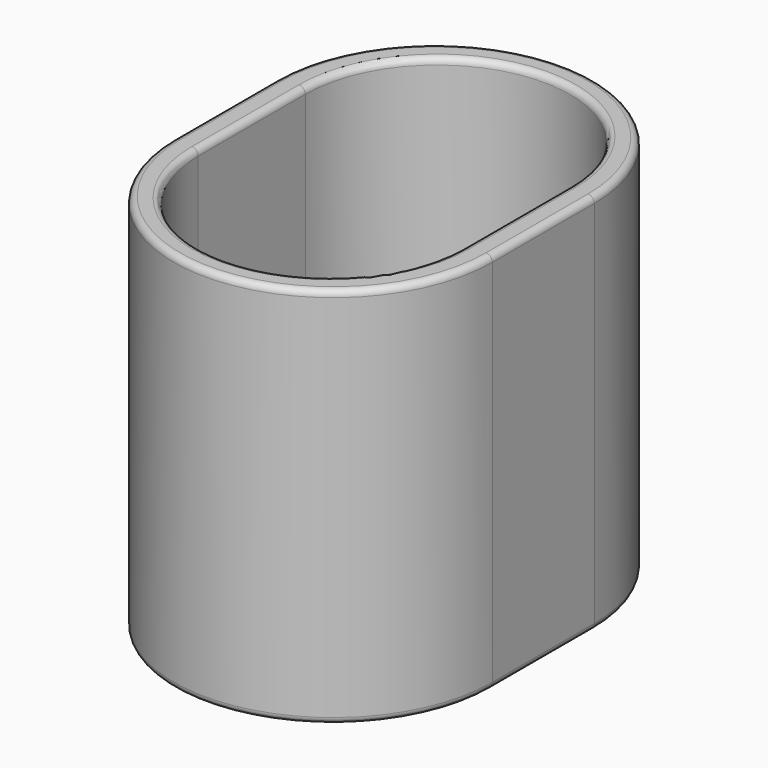
from build123d import *

# Parameters (mm, degrees)
PAD_DEPTH    = 12
POCKET_DEPTH = 12.001
FILLET_R     = 0.2
FILLET001_R  = 0.2


with BuildPart() as part:
    # Sketch → Pad (new body)
    with BuildSketch(Plane.XY):
        with BuildLine():
            ThreePointArc((5, 2), (0, 7), (-5, 2))
            Line((-5, 2), (-5, -2))
            ThreePointArc((-5, -2), (0, -7), (5, -2))
            Line((5, -2), (5, 2))
        make_face()
    extrude(amount=-PAD_DEPTH)

    # Sketch001 (on Face6 of Pad) → Pocket (cut, through all)
    with BuildSketch(Plane(origin=(0, 0, -12), x_dir=(1, 0, 0), z_dir=(0, 0, -1))):
        with BuildLine():
            ThreePointArc((4.15, 2.1), (0, 6.25), (-4.15, 2.1))
            Line((-4.15, 2.1), (-4.15, -2.1))
            ThreePointArc((-4.15, -2.1), (0, -6.25), (4.15, -2.1))
            Line((4.15, -2.1), (4.15, 2.1))
        make_face()
    extrude(amount=-POCKET_DEPTH, mode=Mode.SUBTRACT)

    # Fillet
    fillet_edges = [part.edges().sort_by_distance(p)[0] for p in [
        (0, 7, 0),
        (5, 0, 0),
        (-5, 0, 0),
        (0, -7, 0),
        (4.15, 0, 0),
        (0, 6.25, 0),
        (-4.15, 0, 0),
        (0, -6.25, 0),
    ]]
    fillet(fillet_edges, radius=FILLET_R)

    # Fillet001
    fillet001_edges = [part.edges().sort_by_distance(p)[0] for p in [
        (0, 7, -12),
        (5, 0, -12),
        (-5, 0, -12),
        (0, -7, -12),
        (4.15, 0, -12),
        (0, 6.25, -12),
        (-4.15, 0, -12),
        (0, -6.25, -12),
    ]]
    fillet(fillet001_edges, radius=FILLET001_R)


solid = part.part
